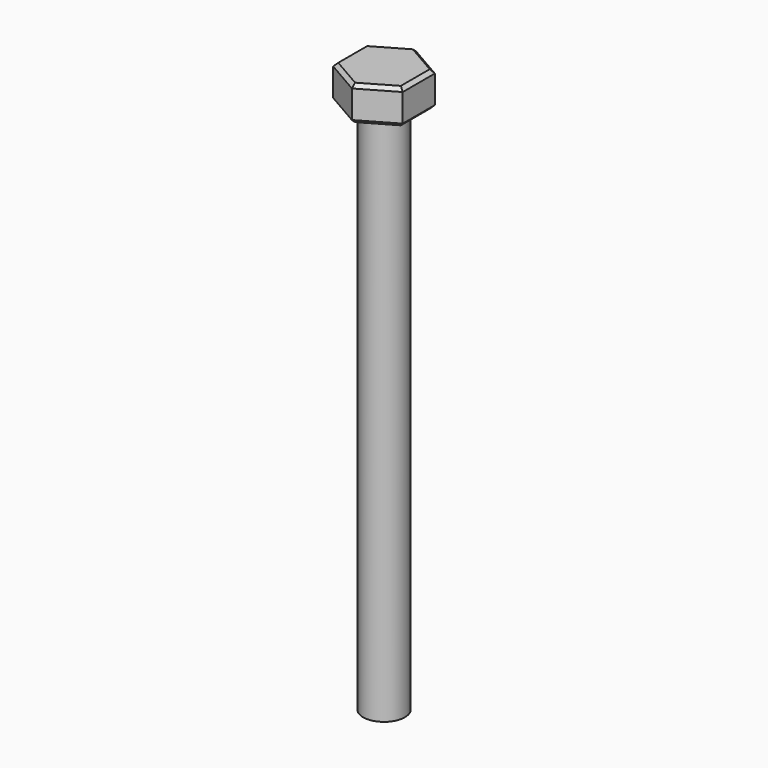
from build123d import *

# Parameters (mm, degrees)
F0_R     = 3
F1_DEPTH = 20
F3_DEPTH = 5
F4_SIZE  = 0.5
F5_DEPTH = 56.5


with BuildPart() as f1:
    # F0 (on Top) → F1 (new body)
    with BuildSketch(Plane.XY):
        Circle(F0_R)
    extrude(amount=F1_DEPTH)

    # F2 (on face) → F3 (join)
    with BuildSketch(Plane.XY.offset(20)):
        Polygon((0, -5.7735026919), (5, -2.8867513459), (5, 2.8867513459), (0, 5.7735026919), (-5, 2.8867513459), (-5, -2.8867513459), align=None)
    extrude(amount=F3_DEPTH)

    # F4
    f4_edges = [f1.edges().sort_by_distance(p)[0] for p in [
        (-2.5, -4.330127, 25),
        (2.5, -4.330127, 25),
        (5, 0, 25),
        (2.5, 4.330127, 25),
        (-2.5, 4.330127, 25),
        (-5, 0, 25),
        (-2.5, -4.330127, 20),
        (-5, 0, 20),
        (2.5, -4.330127, 20),
        (-2.5, 4.330127, 20),
        (5, 0, 20),
        (2.5, 4.330127, 20),
        (-3, 0, 20),
    ]]
    chamfer(f4_edges, length=F4_SIZE)

    # F5 (add): a face of the model
    f5_faces = [f1.faces().sort_by_distance(p)[0] for p in [
        (0, 0, 0),
    ]]
    extrude(f5_faces, amount=F5_DEPTH)


solid = f1.part
